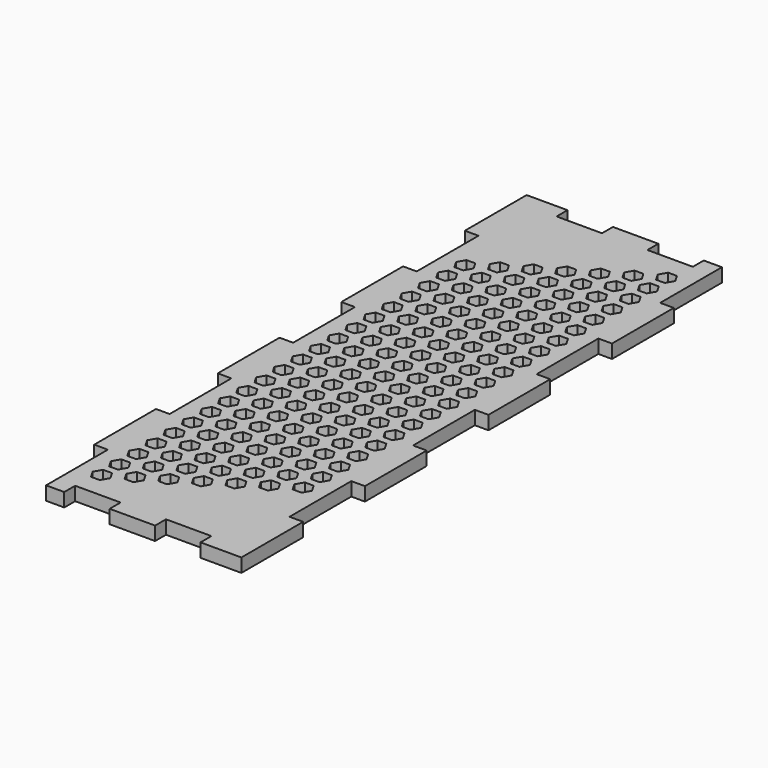
from build123d import *

# Parameters (mm, degrees)
RECTANGLE069_AS_DRAWN_W                 = 10
RECTANGLE069_AS_DRAWN_H                 = 3
EXTRUDE079_DEPTH                        = 3
EXTRUDE079_ONTO_RECTANGLE069_ROLL_ANGLE = 90
RECTANGLE068_AS_DRAWN_W                 = 10
RECTANGLE068_AS_DRAWN_H                 = 3
EXTRUDE078_DEPTH                        = 3
EXTRUDE078_ONTO_RECTANGLE068_ROLL_ANGLE = 90
FUSION058_PLACEMENT_ANGLE               = 180
RECTANGLE061_AS_DRAWN_W                 = 10
RECTANGLE061_AS_DRAWN_H                 = 3
EXTRUDE071_DEPTH                        = 3
EXTRUDE071_ONTO_RECTANGLE061_ROLL_ANGLE = 90
RECTANGLE059_AS_DRAWN_W                 = 10
RECTANGLE059_AS_DRAWN_H                 = 3
EXTRUDE069_DEPTH                        = 3
EXTRUDE069_ONTO_RECTANGLE059_ROLL_ANGLE = 90
RECTANGLE011_W                          = 17
RECTANGLE011_H                          = 3
EXTRUDE021_DEPTH                        = 3
RECTANGLE012_W                          = 17
RECTANGLE012_H                          = 3
EXTRUDE022_DEPTH                        = 3
RECTANGLE013_W                          = 17
RECTANGLE013_H                          = 3
EXTRUDE023_DEPTH                        = 3
RECTANGLE010_W                          = 17
RECTANGLE010_H                          = 3
EXTRUDE020_DEPTH                        = 3
RECTANGLE004_W                          = 17
RECTANGLE004_H                          = 3
EXTRUDE014_DEPTH                        = 3
RECTANGLE007_W                          = 17
RECTANGLE007_H                          = 3
EXTRUDE017_DEPTH                        = 3
RECTANGLE009_W                          = 17
RECTANGLE009_H                          = 3
EXTRUDE019_DEPTH                        = 3
RECTANGLE002_W                          = 17
RECTANGLE002_H                          = 3
EXTRUDE012_DEPTH                        = 3
EXTRUDE010_DEPTH                        = 3
BOX010_W                                = 46
BOX010_H                                = 136
BOX010_DEPTH                            = 3


with BuildPart() as obj1:
    # Rectangle069 as drawn → Extrude079 (new)
    with BuildSketch(Plane.XY):
        with Locations((-5, -1.5)):
            Rectangle(RECTANGLE069_AS_DRAWN_W, RECTANGLE069_AS_DRAWN_H)
    extrude(amount=-EXTRUDE079_DEPTH)


with BuildPart() as obj1_1:
    # Extrude079 onto Rectangle069 roll: moved
    add(obj1.part.rotate(Axis((0, 0, 0), (1, 0, 0)), EXTRUDE079_ONTO_RECTANGLE069_ROLL_ANGLE))


with BuildPart() as obj1_2:
    # Extrude079 onto Rectangle069 placement: moved
    add(obj1_1.part.moved(Location((-6, -68, 55))))


with BuildPart() as obj2:
    # Rectangle068 as drawn → Extrude078 (new)
    with BuildSketch(Plane.XY):
        with Locations((-5, -1.5)):
            Rectangle(RECTANGLE068_AS_DRAWN_W, RECTANGLE068_AS_DRAWN_H)
    extrude(amount=-EXTRUDE078_DEPTH)


with BuildPart() as obj2_1:
    # Extrude078 onto Rectangle068 roll: moved
    add(obj2.part.rotate(Axis((0, 0, 0), (1, 0, 0)), EXTRUDE078_ONTO_RECTANGLE068_ROLL_ANGLE))


with BuildPart() as obj2_2:
    # Extrude078 onto Rectangle068 placement: moved
    add(obj2_1.part.moved(Location((14, -68, 55))))

    # Fusion058: union obj1
    add(obj1_2.part)


with BuildPart() as obj2_3:
    # Fusion058 placement: moved
    add(obj2_2.part.moved(Location((0, 0, 33))).rotate(Axis((0, 0, 33), (0, 0, 1)), FUSION058_PLACEMENT_ANGLE))


with BuildPart() as obj3:
    # Rectangle061 as drawn → Extrude071 (new)
    with BuildSketch(Plane.XY):
        with Locations((-5, -1.5)):
            Rectangle(RECTANGLE061_AS_DRAWN_W, RECTANGLE061_AS_DRAWN_H)
    extrude(amount=-EXTRUDE071_DEPTH)


with BuildPart() as obj3_1:
    # Extrude071 onto Rectangle061 roll: moved
    add(obj3.part.rotate(Axis((0, 0, 0), (1, 0, 0)), EXTRUDE071_ONTO_RECTANGLE061_ROLL_ANGLE))


with BuildPart() as obj3_2:
    # Extrude071 onto Rectangle061 placement: moved
    add(obj3_1.part.moved(Location((-6, -68, 55))))


with BuildPart() as side_tabs:
    # Rectangle059 as drawn → Extrude069 (new)
    with BuildSketch(Plane.XY):
        with Locations((-5, -1.5)):
            Rectangle(RECTANGLE059_AS_DRAWN_W, RECTANGLE059_AS_DRAWN_H)
    extrude(amount=-EXTRUDE069_DEPTH)


with BuildPart() as side_tabs_1:
    # Extrude069 onto Rectangle059 roll: moved
    add(side_tabs.part.rotate(Axis((0, 0, 0), (1, 0, 0)), EXTRUDE069_ONTO_RECTANGLE059_ROLL_ANGLE))


with BuildPart() as side_tabs_2:
    # Extrude069 onto Rectangle059 placement: moved
    add(side_tabs_1.part.moved(Location((14, -68, 55))))

    # Fusion055: union obj3
    add(obj3_2.part)


with BuildPart() as side_tabs_3:
    # Fusion055 placement: moved
    add(side_tabs_2.part.moved(Location((0, 0, 33))))

    # Fusion065: union obj2
    add(obj2_3.part)


with BuildPart() as extrude021:
    # Rectangle011 → Extrude021 (new body)
    with BuildSketch(Plane(origin=(24, -34, 88), x_dir=(0, -1, 0), z_dir=(1, 0, 0))):
        with Locations((-8.5, 1.5)):
            Rectangle(RECTANGLE011_W, RECTANGLE011_H)
    extrude(amount=-EXTRUDE021_DEPTH)


with BuildPart() as extrude021_1:
    # Extrude021 placement: moved
    add(extrude021.part.moved(Location((1, 0, 0))))


with BuildPart() as extrude022:
    # Rectangle012 → Extrude022 (new body)
    with BuildSketch(Plane(origin=(24, 0, 88), x_dir=(0, -1, 0), z_dir=(1, 0, 0))):
        with Locations((-8.5, 1.5)):
            Rectangle(RECTANGLE012_W, RECTANGLE012_H)
    extrude(amount=-EXTRUDE022_DEPTH)


with BuildPart() as extrude022_1:
    # Extrude022 placement: moved
    add(extrude022.part.moved(Location((1, 0, 0))))


with BuildPart() as extrude023:
    # Rectangle013 → Extrude023 (new body)
    with BuildSketch(Plane(origin=(24, 34, 88), x_dir=(0, -1, 0), z_dir=(1, 0, 0))):
        with Locations((-8.5, 1.5)):
            Rectangle(RECTANGLE013_W, RECTANGLE013_H)
    extrude(amount=-EXTRUDE023_DEPTH)


with BuildPart() as extrude023_1:
    # Extrude023 placement: moved
    add(extrude023.part.moved(Location((1, 0, 0))))


with BuildPart() as finger_joints_a_rear:
    # Rectangle010 → Extrude020 (new body)
    with BuildSketch(Plane(origin=(24, -68, 88), x_dir=(0, -1, 0), z_dir=(1, 0, 0))):
        with Locations((-8.5, 1.5)):
            Rectangle(RECTANGLE010_W, RECTANGLE010_H)
    extrude(amount=-EXTRUDE020_DEPTH)


with BuildPart() as finger_joints_a_rear_1:
    # Extrude020 placement: moved
    add(finger_joints_a_rear.part.moved(Location((1, 0, 0))))

    # Fusion030: union Extrude021, Extrude022, Extrude023
    add(extrude021_1.part)
    add(extrude022_1.part)
    add(extrude023_1.part)


with BuildPart() as finger_joints_a_rear_2:
    # Fusion030 placement: moved
    add(finger_joints_a_rear_1.part.moved(Location((-45, 0, 0))))


with BuildPart() as extrude014:
    # Rectangle004 → Extrude014 (new body)
    with BuildSketch(Plane(origin=(24, -17, 88), x_dir=(0, -1, 0), z_dir=(1, 0, 0))):
        with Locations((-8.5, 1.5)):
            Rectangle(RECTANGLE004_W, RECTANGLE004_H)
    extrude(amount=-EXTRUDE014_DEPTH)


with BuildPart() as extrude017:
    # Rectangle007 → Extrude017 (new body)
    with BuildSketch(Plane(origin=(24, 17, 88), x_dir=(0, -1, 0), z_dir=(1, 0, 0))):
        with Locations((-8.5, 1.5)):
            Rectangle(RECTANGLE007_W, RECTANGLE007_H)
    extrude(amount=-EXTRUDE017_DEPTH)


with BuildPart() as extrude019:
    # Rectangle009 → Extrude019 (new body)
    with BuildSketch(Plane(origin=(24, 51, 88), x_dir=(0, -1, 0), z_dir=(1, 0, 0))):
        with Locations((-8.5, 1.5)):
            Rectangle(RECTANGLE009_W, RECTANGLE009_H)
    extrude(amount=-EXTRUDE019_DEPTH)


with BuildPart() as finger_joints_a:
    # Rectangle002 → Extrude012 (new body)
    with BuildSketch(Plane(origin=(24, -51, 88), x_dir=(0, -1, 0), z_dir=(1, 0, 0))):
        with Locations((-8.5, 1.5)):
            Rectangle(RECTANGLE002_W, RECTANGLE002_H)
    extrude(amount=-EXTRUDE012_DEPTH)

    # Fusion029: union Extrude014, Extrude017, Extrude019
    add(extrude014.part)
    add(extrude017.part)
    add(extrude019.part)


with BuildPart() as finger_joints_a_1:
    # Fusion029 placement: moved
    add(finger_joints_a.part.moved(Location((-1, 0, 0))))

    # Fusion032: union Finger joints A Rear
    add(finger_joints_a_rear_2.part)


with BuildPart() as extrude010:
    # Array010 → Extrude010 (new body)
    with BuildSketch(Plane(origin=(-14.97228, -59.033596, 88), x_dir=(0, -1, 0), z_dir=(0, 0, -1))):
        Polygon((1.676706, 0.968047), (0, 1.936093), (-1.676706, 0.968047), (-1.676706, -0.968047), (0, -1.936093), (1.676706, -0.968047), align=None)
        Polygon((-3.323294, 0.968047), (-5, 1.936093), (-6.676706, 0.968047), (-6.676706, -0.968047), (-5, -1.936093), (-3.323294, -0.968047), align=None)
        Polygon((-8.323294, 0.968047), (-10, 1.936093), (-11.676706, 0.968047), (-11.676706, -0.968047), (-10, -1.936093), (-8.323294, -0.968047), align=None)
        Polygon((-13.323294, 0.968047), (-15, 1.936093), (-16.676706, 0.968047), (-16.676706, -0.968047), (-15, -1.936093), (-13.323294, -0.968047), align=None)
        Polygon((-18.323294, 0.968047), (-20, 1.936093), (-21.676706, 0.968047), (-21.676706, -0.968047), (-20, -1.936093), (-18.323294, -0.968047), align=None)
        Polygon((-23.323294, 0.968047), (-25, 1.936093), (-26.676706, 0.968047), (-26.676706, -0.968047), (-25, -1.936093), (-23.323294, -0.968047), align=None)
        Polygon((-28.323294, 0.968047), (-30, 1.936093), (-31.676706, 0.968047), (-31.676706, -0.968047), (-30, -1.936093), (-28.323294, -0.968047), align=None)
        Polygon((-33.323294, 0.968047), (-35, 1.936093), (-36.676706, 0.968047), (-36.676706, -0.968047), (-35, -1.936093), (-33.323294, -0.968047), align=None)
        Polygon((-38.323294, 0.968047), (-40, 1.936093), (-41.676706, 0.968047), (-41.676706, -0.968047), (-40, -1.936093), (-38.323294, -0.968047), align=None)
        Polygon((-43.323294, 0.968047), (-45, 1.936093), (-46.676706, 0.968047), (-46.676706, -0.968047), (-45, -1.936093), (-43.323294, -0.968047), align=None)
        Polygon((-48.323294, 0.968047), (-50, 1.936093), (-51.676706, 0.968047), (-51.676706, -0.968047), (-50, -1.936093), (-48.323294, -0.968047), align=None)
        Polygon((-53.323294, 0.968047), (-55, 1.936093), (-56.676706, 0.968047), (-56.676706, -0.968047), (-55, -1.936093), (-53.323294, -0.968047), align=None)
        Polygon((-58.323294, 0.968047), (-60, 1.936093), (-61.676706, 0.968047), (-61.676706, -0.968047), (-60, -1.936093), (-58.323294, -0.968047), align=None)
        Polygon((-63.323294, 0.968047), (-65, 1.936093), (-66.676706, 0.968047), (-66.676706, -0.968047), (-65, -1.936093), (-63.323294, -0.968047), align=None)
        Polygon((-68.323294, 0.968047), (-70, 1.936093), (-71.676706, 0.968047), (-71.676706, -0.968047), (-70, -1.936093), (-68.323294, -0.968047), align=None)
        Polygon((-73.323294, 0.968047), (-75, 1.936093), (-76.676706, 0.968047), (-76.676706, -0.968047), (-75, -1.936093), (-73.323294, -0.968047), align=None)
        Polygon((-78.323294, 0.968047), (-80, 1.936093), (-81.676706, 0.968047), (-81.676706, -0.968047), (-80, -1.936093), (-78.323294, -0.968047), align=None)
        Polygon((-83.323294, 0.968047), (-85, 1.936093), (-86.676706, 0.968047), (-86.676706, -0.968047), (-85, -1.936093), (-83.323294, -0.968047), align=None)
        Polygon((-88.323294, 0.968047), (-90, 1.936093), (-91.676706, 0.968047), (-91.676706, -0.968047), (-90, -1.936093), (-88.323294, -0.968047), align=None)
        Polygon((-93.323294, 0.968047), (-95, 1.936093), (-96.676706, 0.968047), (-96.676706, -0.968047), (-95, -1.936093), (-93.323294, -0.968047), align=None)
        Polygon((-98.323294, 0.968047), (-100, 1.936093), (-101.676706, 0.968047), (-101.676706, -0.968047), (-100, -1.936093), (-98.323294, -0.968047), align=None)
        Polygon((-1.323294, -4.031953), (-3, -3.063907), (-4.676706, -4.031953), (-4.676706, -5.968047), (-3, -6.936093), (-1.323294, -5.968047), align=None)
        Polygon((-6.323294, -4.031953), (-8, -3.063907), (-9.676706, -4.031953), (-9.676706, -5.968047), (-8, -6.936093), (-6.323294, -5.968047), align=None)
        Polygon((-11.323294, -4.031953), (-13, -3.063907), (-14.676706, -4.031953), (-14.676706, -5.968047), (-13, -6.936093), (-11.323294, -5.968047), align=None)
        Polygon((-16.323294, -4.031953), (-18, -3.063907), (-19.676706, -4.031953), (-19.676706, -5.968047), (-18, -6.936093), (-16.323294, -5.968047), align=None)
        Polygon((-21.323294, -4.031953), (-23, -3.063907), (-24.676706, -4.031953), (-24.676706, -5.968047), (-23, -6.936093), (-21.323294, -5.968047), align=None)
        Polygon((-26.323294, -4.031953), (-28, -3.063907), (-29.676706, -4.031953), (-29.676706, -5.968047), (-28, -6.936093), (-26.323294, -5.968047), align=None)
        Polygon((-31.323294, -4.031953), (-33, -3.063907), (-34.676706, -4.031953), (-34.676706, -5.968047), (-33, -6.936093), (-31.323294, -5.968047), align=None)
        Polygon((-36.323294, -4.031953), (-38, -3.063907), (-39.676706, -4.031953), (-39.676706, -5.968047), (-38, -6.936093), (-36.323294, -5.968047), align=None)
        Polygon((-41.323294, -4.031953), (-43, -3.063907), (-44.676706, -4.031953), (-44.676706, -5.968047), (-43, -6.936093), (-41.323294, -5.968047), align=None)
        Polygon((-46.323294, -4.031953), (-48, -3.063907), (-49.676706, -4.031953), (-49.676706, -5.968047), (-48, -6.936093), (-46.323294, -5.968047), align=None)
        Polygon((-51.323294, -4.031953), (-53, -3.063907), (-54.676706, -4.031953), (-54.676706, -5.968047), (-53, -6.936093), (-51.323294, -5.968047), align=None)
        Polygon((-56.323294, -4.031953), (-58, -3.063907), (-59.676706, -4.031953), (-59.676706, -5.968047), (-58, -6.936093), (-56.323294, -5.968047), align=None)
        Polygon((-61.323294, -4.031953), (-63, -3.063907), (-64.676706, -4.031953), (-64.676706, -5.968047), (-63, -6.936093), (-61.323294, -5.968047), align=None)
        Polygon((-66.323294, -4.031953), (-68, -3.063907), (-69.676706, -4.031953), (-69.676706, -5.968047), (-68, -6.936093), (-66.323294, -5.968047), align=None)
        Polygon((-71.323294, -4.031953), (-73, -3.063907), (-74.676706, -4.031953), (-74.676706, -5.968047), (-73, -6.936093), (-71.323294, -5.968047), align=None)
        Polygon((-76.323294, -4.031953), (-78, -3.063907), (-79.676706, -4.031953), (-79.676706, -5.968047), (-78, -6.936093), (-76.323294, -5.968047), align=None)
        Polygon((-81.323294, -4.031953), (-83, -3.063907), (-84.676706, -4.031953), (-84.676706, -5.968047), (-83, -6.936093), (-81.323294, -5.968047), align=None)
        Polygon((-86.323294, -4.031953), (-88, -3.063907), (-89.676706, -4.031953), (-89.676706, -5.968047), (-88, -6.936093), (-86.323294, -5.968047), align=None)
        Polygon((-91.323294, -4.031953), (-93, -3.063907), (-94.676706, -4.031953), (-94.676706, -5.968047), (-93, -6.936093), (-91.323294, -5.968047), align=None)
        Polygon((-96.323294, -4.031953), (-98, -3.063907), (-99.676706, -4.031953), (-99.676706, -5.968047), (-98, -6.936093), (-96.323294, -5.968047), align=None)
        Polygon((-101.323294, -4.031953), (-103, -3.063907), (-104.676706, -4.031953), (-104.676706, -5.968047), (-103, -6.936093), (-101.323294, -5.968047), align=None)
        Polygon((-4.323294, -9.031953), (-6, -8.063907), (-7.676706, -9.031953), (-7.676706, -10.968047), (-6, -11.936093), (-4.323294, -10.968047), align=None)
        Polygon((-9.323294, -9.031953), (-11, -8.063907), (-12.676706, -9.031953), (-12.676706, -10.968047), (-11, -11.936093), (-9.323294, -10.968047), align=None)
        Polygon((-14.323294, -9.031953), (-16, -8.063907), (-17.676706, -9.031953), (-17.676706, -10.968047), (-16, -11.936093), (-14.323294, -10.968047), align=None)
        Polygon((-19.323294, -9.031953), (-21, -8.063907), (-22.676706, -9.031953), (-22.676706, -10.968047), (-21, -11.936093), (-19.323294, -10.968047), align=None)
        Polygon((-24.323294, -9.031953), (-26, -8.063907), (-27.676706, -9.031953), (-27.676706, -10.968047), (-26, -11.936093), (-24.323294, -10.968047), align=None)
        Polygon((-29.323294, -9.031953), (-31, -8.063907), (-32.676706, -9.031953), (-32.676706, -10.968047), (-31, -11.936093), (-29.323294, -10.968047), align=None)
        Polygon((-34.323294, -9.031953), (-36, -8.063907), (-37.676706, -9.031953), (-37.676706, -10.968047), (-36, -11.936093), (-34.323294, -10.968047), align=None)
        Polygon((-39.323294, -9.031953), (-41, -8.063907), (-42.676706, -9.031953), (-42.676706, -10.968047), (-41, -11.936093), (-39.323294, -10.968047), align=None)
        Polygon((-44.323294, -9.031953), (-46, -8.063907), (-47.676706, -9.031953), (-47.676706, -10.968047), (-46, -11.936093), (-44.323294, -10.968047), align=None)
        Polygon((-49.323294, -9.031953), (-51, -8.063907), (-52.676706, -9.031953), (-52.676706, -10.968047), (-51, -11.936093), (-49.323294, -10.968047), align=None)
        Polygon((-54.323294, -9.031953), (-56, -8.063907), (-57.676706, -9.031953), (-57.676706, -10.968047), (-56, -11.936093), (-54.323294, -10.968047), align=None)
        Polygon((-59.323294, -9.031953), (-61, -8.063907), (-62.676706, -9.031953), (-62.676706, -10.968047), (-61, -11.936093), (-59.323294, -10.968047), align=None)
        Polygon((-64.323294, -9.031953), (-66, -8.063907), (-67.676706, -9.031953), (-67.676706, -10.968047), (-66, -11.936093), (-64.323294, -10.968047), align=None)
        Polygon((-69.323294, -9.031953), (-71, -8.063907), (-72.676706, -9.031953), (-72.676706, -10.968047), (-71, -11.936093), (-69.323294, -10.968047), align=None)
        Polygon((-74.323294, -9.031953), (-76, -8.063907), (-77.676706, -9.031953), (-77.676706, -10.968047), (-76, -11.936093), (-74.323294, -10.968047), align=None)
        Polygon((-79.323294, -9.031953), (-81, -8.063907), (-82.676706, -9.031953), (-82.676706, -10.968047), (-81, -11.936093), (-79.323294, -10.968047), align=None)
        Polygon((-84.323294, -9.031953), (-86, -8.063907), (-87.676706, -9.031953), (-87.676706, -10.968047), (-86, -11.936093), (-84.323294, -10.968047), align=None)
        Polygon((-89.323294, -9.031953), (-91, -8.063907), (-92.676706, -9.031953), (-92.676706, -10.968047), (-91, -11.936093), (-89.323294, -10.968047), align=None)
        Polygon((-94.323294, -9.031953), (-96, -8.063907), (-97.676706, -9.031953), (-97.676706, -10.968047), (-96, -11.936093), (-94.323294, -10.968047), align=None)
        Polygon((-99.323294, -9.031953), (-101, -8.063907), (-102.676706, -9.031953), (-102.676706, -10.968047), (-101, -11.936093), (-99.323294, -10.968047), align=None)
        Polygon((-104.323294, -9.031953), (-106, -8.063907), (-107.676706, -9.031953), (-107.676706, -10.968047), (-106, -11.936093), (-104.323294, -10.968047), align=None)
        Polygon((-7.323294, -14.031953), (-9, -13.063907), (-10.676706, -14.031953), (-10.676706, -15.968047), (-9, -16.936093), (-7.323294, -15.968047), align=None)
        Polygon((-12.323294, -14.031953), (-14, -13.063907), (-15.676706, -14.031953), (-15.676706, -15.968047), (-14, -16.936093), (-12.323294, -15.968047), align=None)
        Polygon((-17.323294, -14.031953), (-19, -13.063907), (-20.676706, -14.031953), (-20.676706, -15.968047), (-19, -16.936093), (-17.323294, -15.968047), align=None)
        Polygon((-22.323294, -14.031953), (-24, -13.063907), (-25.676706, -14.031953), (-25.676706, -15.968047), (-24, -16.936093), (-22.323294, -15.968047), align=None)
        Polygon((-27.323294, -14.031953), (-29, -13.063907), (-30.676706, -14.031953), (-30.676706, -15.968047), (-29, -16.936093), (-27.323294, -15.968047), align=None)
        Polygon((-32.323294, -14.031953), (-34, -13.063907), (-35.676706, -14.031953), (-35.676706, -15.968047), (-34, -16.936093), (-32.323294, -15.968047), align=None)
        Polygon((-37.323294, -14.031953), (-39, -13.063907), (-40.676706, -14.031953), (-40.676706, -15.968047), (-39, -16.936093), (-37.323294, -15.968047), align=None)
        Polygon((-42.323294, -14.031953), (-44, -13.063907), (-45.676706, -14.031953), (-45.676706, -15.968047), (-44, -16.936093), (-42.323294, -15.968047), align=None)
        Polygon((-47.323294, -14.031953), (-49, -13.063907), (-50.676706, -14.031953), (-50.676706, -15.968047), (-49, -16.936093), (-47.323294, -15.968047), align=None)
        Polygon((-52.323294, -14.031953), (-54, -13.063907), (-55.676706, -14.031953), (-55.676706, -15.968047), (-54, -16.936093), (-52.323294, -15.968047), align=None)
        Polygon((-57.323294, -14.031953), (-59, -13.063907), (-60.676706, -14.031953), (-60.676706, -15.968047), (-59, -16.936093), (-57.323294, -15.968047), align=None)
        Polygon((-62.323294, -14.031953), (-64, -13.063907), (-65.676706, -14.031953), (-65.676706, -15.968047), (-64, -16.936093), (-62.323294, -15.968047), align=None)
        Polygon((-67.323294, -14.031953), (-69, -13.063907), (-70.676706, -14.031953), (-70.676706, -15.968047), (-69, -16.936093), (-67.323294, -15.968047), align=None)
        Polygon((-72.323294, -14.031953), (-74, -13.063907), (-75.676706, -14.031953), (-75.676706, -15.968047), (-74, -16.936093), (-72.323294, -15.968047), align=None)
        Polygon((-77.323294, -14.031953), (-79, -13.063907), (-80.676706, -14.031953), (-80.676706, -15.968047), (-79, -16.936093), (-77.323294, -15.968047), align=None)
        Polygon((-82.323294, -14.031953), (-84, -13.063907), (-85.676706, -14.031953), (-85.676706, -15.968047), (-84, -16.936093), (-82.323294, -15.968047), align=None)
        Polygon((-87.323294, -14.031953), (-89, -13.063907), (-90.676706, -14.031953), (-90.676706, -15.968047), (-89, -16.936093), (-87.323294, -15.968047), align=None)
        Polygon((-92.323294, -14.031953), (-94, -13.063907), (-95.676706, -14.031953), (-95.676706, -15.968047), (-94, -16.936093), (-92.323294, -15.968047), align=None)
        Polygon((-97.323294, -14.031953), (-99, -13.063907), (-100.676706, -14.031953), (-100.676706, -15.968047), (-99, -16.936093), (-97.323294, -15.968047), align=None)
        Polygon((-102.323294, -14.031953), (-104, -13.063907), (-105.676706, -14.031953), (-105.676706, -15.968047), (-104, -16.936093), (-102.323294, -15.968047), align=None)
        Polygon((-107.323294, -14.031953), (-109, -13.063907), (-110.676706, -14.031953), (-110.676706, -15.968047), (-109, -16.936093), (-107.323294, -15.968047), align=None)
        Polygon((-10.323294, -19.031953), (-12, -18.063907), (-13.676706, -19.031953), (-13.676706, -20.968047), (-12, -21.936093), (-10.323294, -20.968047), align=None)
        Polygon((-15.323294, -19.031953), (-17, -18.063907), (-18.676706, -19.031953), (-18.676706, -20.968047), (-17, -21.936093), (-15.323294, -20.968047), align=None)
        Polygon((-20.323294, -19.031953), (-22, -18.063907), (-23.676706, -19.031953), (-23.676706, -20.968047), (-22, -21.936093), (-20.323294, -20.968047), align=None)
        Polygon((-25.323294, -19.031953), (-27, -18.063907), (-28.676706, -19.031953), (-28.676706, -20.968047), (-27, -21.936093), (-25.323294, -20.968047), align=None)
        Polygon((-30.323294, -19.031953), (-32, -18.063907), (-33.676706, -19.031953), (-33.676706, -20.968047), (-32, -21.936093), (-30.323294, -20.968047), align=None)
        Polygon((-35.323294, -19.031953), (-37, -18.063907), (-38.676706, -19.031953), (-38.676706, -20.968047), (-37, -21.936093), (-35.323294, -20.968047), align=None)
        Polygon((-40.323294, -19.031953), (-42, -18.063907), (-43.676706, -19.031953), (-43.676706, -20.968047), (-42, -21.936093), (-40.323294, -20.968047), align=None)
        Polygon((-45.323294, -19.031953), (-47, -18.063907), (-48.676706, -19.031953), (-48.676706, -20.968047), (-47, -21.936093), (-45.323294, -20.968047), align=None)
        Polygon((-50.323294, -19.031953), (-52, -18.063907), (-53.676706, -19.031953), (-53.676706, -20.968047), (-52, -21.936093), (-50.323294, -20.968047), align=None)
        Polygon((-55.323294, -19.031953), (-57, -18.063907), (-58.676706, -19.031953), (-58.676706, -20.968047), (-57, -21.936093), (-55.323294, -20.968047), align=None)
        Polygon((-60.323294, -19.031953), (-62, -18.063907), (-63.676706, -19.031953), (-63.676706, -20.968047), (-62, -21.936093), (-60.323294, -20.968047), align=None)
        Polygon((-65.323294, -19.031953), (-67, -18.063907), (-68.676706, -19.031953), (-68.676706, -20.968047), (-67, -21.936093), (-65.323294, -20.968047), align=None)
        Polygon((-70.323294, -19.031953), (-72, -18.063907), (-73.676706, -19.031953), (-73.676706, -20.968047), (-72, -21.936093), (-70.323294, -20.968047), align=None)
        Polygon((-75.323294, -19.031953), (-77, -18.063907), (-78.676706, -19.031953), (-78.676706, -20.968047), (-77, -21.936093), (-75.323294, -20.968047), align=None)
        Polygon((-80.323294, -19.031953), (-82, -18.063907), (-83.676706, -19.031953), (-83.676706, -20.968047), (-82, -21.936093), (-80.323294, -20.968047), align=None)
        Polygon((-85.323294, -19.031953), (-87, -18.063907), (-88.676706, -19.031953), (-88.676706, -20.968047), (-87, -21.936093), (-85.323294, -20.968047), align=None)
        Polygon((-90.323294, -19.031953), (-92, -18.063907), (-93.676706, -19.031953), (-93.676706, -20.968047), (-92, -21.936093), (-90.323294, -20.968047), align=None)
        Polygon((-95.323294, -19.031953), (-97, -18.063907), (-98.676706, -19.031953), (-98.676706, -20.968047), (-97, -21.936093), (-95.323294, -20.968047), align=None)
        Polygon((-100.323294, -19.031953), (-102, -18.063907), (-103.676706, -19.031953), (-103.676706, -20.968047), (-102, -21.936093), (-100.323294, -20.968047), align=None)
        Polygon((-105.323294, -19.031953), (-107, -18.063907), (-108.676706, -19.031953), (-108.676706, -20.968047), (-107, -21.936093), (-105.323294, -20.968047), align=None)
        Polygon((-110.323294, -19.031953), (-112, -18.063907), (-113.676706, -19.031953), (-113.676706, -20.968047), (-112, -21.936093), (-110.323294, -20.968047), align=None)
        Polygon((-13.323294, -24.031953), (-15, -23.063907), (-16.676706, -24.031953), (-16.676706, -25.968047), (-15, -26.936093), (-13.323294, -25.968047), align=None)
        Polygon((-18.323294, -24.031953), (-20, -23.063907), (-21.676706, -24.031953), (-21.676706, -25.968047), (-20, -26.936093), (-18.323294, -25.968047), align=None)
        Polygon((-23.323294, -24.031953), (-25, -23.063907), (-26.676706, -24.031953), (-26.676706, -25.968047), (-25, -26.936093), (-23.323294, -25.968047), align=None)
        Polygon((-28.323294, -24.031953), (-30, -23.063907), (-31.676706, -24.031953), (-31.676706, -25.968047), (-30, -26.936093), (-28.323294, -25.968047), align=None)
        Polygon((-33.323294, -24.031953), (-35, -23.063907), (-36.676706, -24.031953), (-36.676706, -25.968047), (-35, -26.936093), (-33.323294, -25.968047), align=None)
        Polygon((-38.323294, -24.031953), (-40, -23.063907), (-41.676706, -24.031953), (-41.676706, -25.968047), (-40, -26.936093), (-38.323294, -25.968047), align=None)
        Polygon((-43.323294, -24.031953), (-45, -23.063907), (-46.676706, -24.031953), (-46.676706, -25.968047), (-45, -26.936093), (-43.323294, -25.968047), align=None)
        Polygon((-48.323294, -24.031953), (-50, -23.063907), (-51.676706, -24.031953), (-51.676706, -25.968047), (-50, -26.936093), (-48.323294, -25.968047), align=None)
        Polygon((-53.323294, -24.031953), (-55, -23.063907), (-56.676706, -24.031953), (-56.676706, -25.968047), (-55, -26.936093), (-53.323294, -25.968047), align=None)
        Polygon((-58.323294, -24.031953), (-60, -23.063907), (-61.676706, -24.031953), (-61.676706, -25.968047), (-60, -26.936093), (-58.323294, -25.968047), align=None)
        Polygon((-63.323294, -24.031953), (-65, -23.063907), (-66.676706, -24.031953), (-66.676706, -25.968047), (-65, -26.936093), (-63.323294, -25.968047), align=None)
        Polygon((-68.323294, -24.031953), (-70, -23.063907), (-71.676706, -24.031953), (-71.676706, -25.968047), (-70, -26.936093), (-68.323294, -25.968047), align=None)
        Polygon((-73.323294, -24.031953), (-75, -23.063907), (-76.676706, -24.031953), (-76.676706, -25.968047), (-75, -26.936093), (-73.323294, -25.968047), align=None)
        Polygon((-78.323294, -24.031953), (-80, -23.063907), (-81.676706, -24.031953), (-81.676706, -25.968047), (-80, -26.936093), (-78.323294, -25.968047), align=None)
        Polygon((-83.323294, -24.031953), (-85, -23.063907), (-86.676706, -24.031953), (-86.676706, -25.968047), (-85, -26.936093), (-83.323294, -25.968047), align=None)
        Polygon((-88.323294, -24.031953), (-90, -23.063907), (-91.676706, -24.031953), (-91.676706, -25.968047), (-90, -26.936093), (-88.323294, -25.968047), align=None)
        Polygon((-93.323294, -24.031953), (-95, -23.063907), (-96.676706, -24.031953), (-96.676706, -25.968047), (-95, -26.936093), (-93.323294, -25.968047), align=None)
        Polygon((-98.323294, -24.031953), (-100, -23.063907), (-101.676706, -24.031953), (-101.676706, -25.968047), (-100, -26.936093), (-98.323294, -25.968047), align=None)
        Polygon((-103.323294, -24.031953), (-105, -23.063907), (-106.676706, -24.031953), (-106.676706, -25.968047), (-105, -26.936093), (-103.323294, -25.968047), align=None)
        Polygon((-108.323294, -24.031953), (-110, -23.063907), (-111.676706, -24.031953), (-111.676706, -25.968047), (-110, -26.936093), (-108.323294, -25.968047), align=None)
        Polygon((-113.323294, -24.031953), (-115, -23.063907), (-116.676706, -24.031953), (-116.676706, -25.968047), (-115, -26.936093), (-113.323294, -25.968047), align=None)
        Polygon((-16.323294, -29.031953), (-18, -28.063907), (-19.676706, -29.031953), (-19.676706, -30.968047), (-18, -31.936093), (-16.323294, -30.968047), align=None)
        Polygon((-21.323294, -29.031953), (-23, -28.063907), (-24.676706, -29.031953), (-24.676706, -30.968047), (-23, -31.936093), (-21.323294, -30.968047), align=None)
        Polygon((-26.323294, -29.031953), (-28, -28.063907), (-29.676706, -29.031953), (-29.676706, -30.968047), (-28, -31.936093), (-26.323294, -30.968047), align=None)
        Polygon((-31.323294, -29.031953), (-33, -28.063907), (-34.676706, -29.031953), (-34.676706, -30.968047), (-33, -31.936093), (-31.323294, -30.968047), align=None)
        Polygon((-36.323294, -29.031953), (-38, -28.063907), (-39.676706, -29.031953), (-39.676706, -30.968047), (-38, -31.936093), (-36.323294, -30.968047), align=None)
        Polygon((-41.323294, -29.031953), (-43, -28.063907), (-44.676706, -29.031953), (-44.676706, -30.968047), (-43, -31.936093), (-41.323294, -30.968047), align=None)
        Polygon((-46.323294, -29.031953), (-48, -28.063907), (-49.676706, -29.031953), (-49.676706, -30.968047), (-48, -31.936093), (-46.323294, -30.968047), align=None)
        Polygon((-51.323294, -29.031953), (-53, -28.063907), (-54.676706, -29.031953), (-54.676706, -30.968047), (-53, -31.936093), (-51.323294, -30.968047), align=None)
        Polygon((-56.323294, -29.031953), (-58, -28.063907), (-59.676706, -29.031953), (-59.676706, -30.968047), (-58, -31.936093), (-56.323294, -30.968047), align=None)
        Polygon((-61.323294, -29.031953), (-63, -28.063907), (-64.676706, -29.031953), (-64.676706, -30.968047), (-63, -31.936093), (-61.323294, -30.968047), align=None)
        Polygon((-66.323294, -29.031953), (-68, -28.063907), (-69.676706, -29.031953), (-69.676706, -30.968047), (-68, -31.936093), (-66.323294, -30.968047), align=None)
        Polygon((-71.323294, -29.031953), (-73, -28.063907), (-74.676706, -29.031953), (-74.676706, -30.968047), (-73, -31.936093), (-71.323294, -30.968047), align=None)
        Polygon((-76.323294, -29.031953), (-78, -28.063907), (-79.676706, -29.031953), (-79.676706, -30.968047), (-78, -31.936093), (-76.323294, -30.968047), align=None)
        Polygon((-81.323294, -29.031953), (-83, -28.063907), (-84.676706, -29.031953), (-84.676706, -30.968047), (-83, -31.936093), (-81.323294, -30.968047), align=None)
        Polygon((-86.323294, -29.031953), (-88, -28.063907), (-89.676706, -29.031953), (-89.676706, -30.968047), (-88, -31.936093), (-86.323294, -30.968047), align=None)
        Polygon((-91.323294, -29.031953), (-93, -28.063907), (-94.676706, -29.031953), (-94.676706, -30.968047), (-93, -31.936093), (-91.323294, -30.968047), align=None)
        Polygon((-96.323294, -29.031953), (-98, -28.063907), (-99.676706, -29.031953), (-99.676706, -30.968047), (-98, -31.936093), (-96.323294, -30.968047), align=None)
        Polygon((-101.323294, -29.031953), (-103, -28.063907), (-104.676706, -29.031953), (-104.676706, -30.968047), (-103, -31.936093), (-101.323294, -30.968047), align=None)
        Polygon((-106.323294, -29.031953), (-108, -28.063907), (-109.676706, -29.031953), (-109.676706, -30.968047), (-108, -31.936093), (-106.323294, -30.968047), align=None)
        Polygon((-111.323294, -29.031953), (-113, -28.063907), (-114.676706, -29.031953), (-114.676706, -30.968047), (-113, -31.936093), (-111.323294, -30.968047), align=None)
        Polygon((-116.323294, -29.031953), (-118, -28.063907), (-119.676706, -29.031953), (-119.676706, -30.968047), (-118, -31.936093), (-116.323294, -30.968047), align=None)
    extrude(amount=EXTRUDE010_DEPTH)


with BuildPart() as carriage_lid_all_tabs:
    # Box010 → Box010 (new body)
    with BuildSketch(Plane(origin=(-23, -68, 85), x_dir=(1, 0, 0), z_dir=(0, 0, 1))):
        with Locations((23, 68)):
            Rectangle(BOX010_W, BOX010_H)
    extrude(amount=BOX010_DEPTH)

    # Cut016: cut Extrude010
    add(extrude010.part, mode=Mode.SUBTRACT)

    # Cut024: cut Finger joints A
    add(finger_joints_a_1.part, mode=Mode.SUBTRACT)

    # Cut027: cut Side tabs
    add(side_tabs_3.part, mode=Mode.SUBTRACT)


solid = carriage_lid_all_tabs.part
